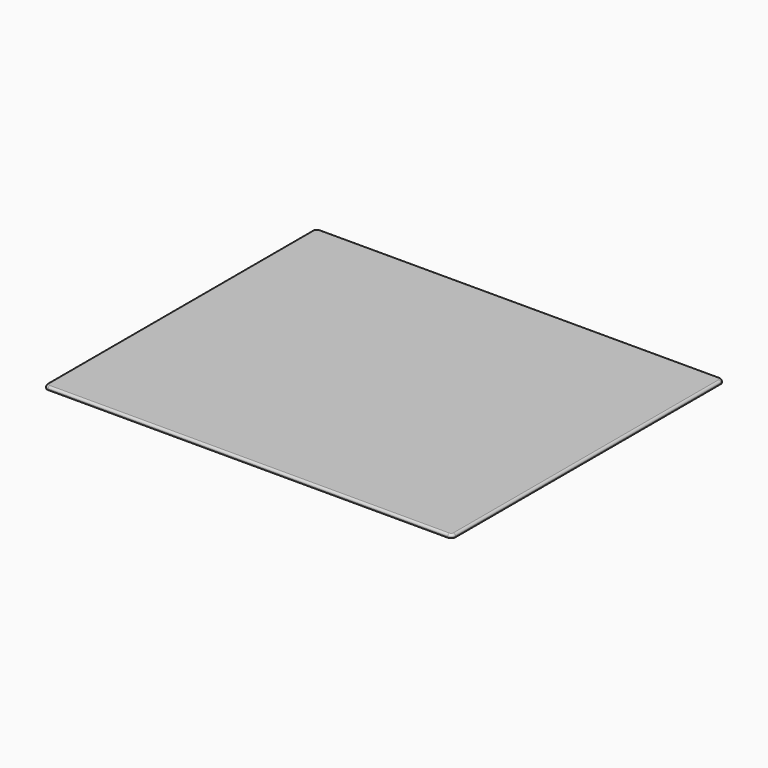
from build123d import *

# Parameters (mm, degrees)
F0_W     = 1219.2
F0_H     = 9.525
F1_DEPTH = 508
F2_R     = 12.7
F3_R     = 6.35


with BuildPart() as f1:
    # F0 (on Front) → F1 (new body, symmetric)
    with BuildSketch(Plane.XZ):
        with Locations((609.6, 4.7625)):
            Rectangle(F0_W, F0_H)
    extrude(amount=F1_DEPTH, both=True)

    # F2
    f2_edges = [f1.edges().sort_by_distance(p)[0] for p in [
        (1219.2, -508, 4.7625),
        (1219.2, 508, 4.7625),
        (0, 508, 4.7625),
        (0, -508, 4.7625),
    ]]
    fillet(f2_edges, radius=F2_R)

    # F3
    f3_edges = [f1.edges().sort_by_distance(p)[0] for p in [
        (609.6, 508, 9.525),
        (1215.480256, 504.280256, 9.525),
        (3.719744, 504.280256, 9.525),
        (1219.2, 0, 9.525),
        (0, 0, 9.525),
        (1215.480256, -504.280256, 9.525),
        (3.719744, -504.280256, 9.525),
        (609.6, -508, 9.525),
    ]]
    fillet(f3_edges, radius=F3_R)


solid = f1.part
